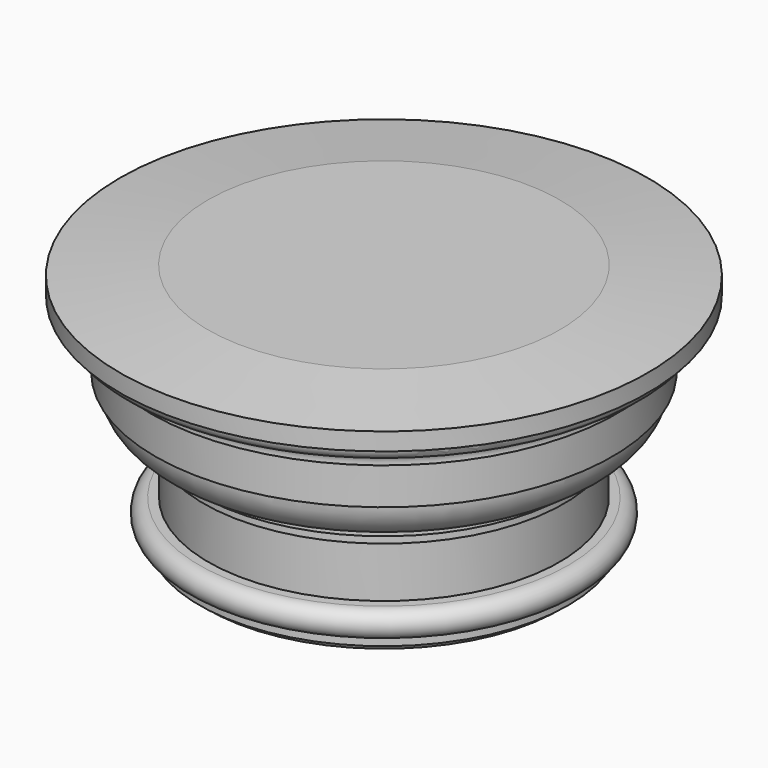
from build123d import *


with BuildPart() as f1:
    # F0 (on Front) → F1 (revolve)
    with BuildSketch(Plane.XZ):
        with BuildLine():
            Line((-200, 0), (0, 0))
            Line((0, 0), (0, 280))
            Line((0, 280), (-200, 280))
            Line((-200, 280), (-300, 269.5))
            Line((-300, 269.5), (-300, 249.5))
            Line((-300, 249.5), (-295, 249.5))
            ThreePointArc((-295, 249.5), (-290.540743, 238.825588), (-279.811945, 234.498821))
            ThreePointArc((-279.811945, 234.498821), (-268.294126, 229.330384), (-264.80145, 217.19885))
            Line((-264.80145, 217.19885), (-259.80145, 217.19885))
            Line((-259.80145, 217.19885), (-259.80145, 172.69885))
            Line((-259.80145, 172.69885), (-254.80145, 172.69885))
            ThreePointArc((-254.80145, 172.69885), (-241.614791, 140.804861), (-209.715405, 127.631263))
            Line((-209.715405, 127.631263), (-209.715405, 117.631263))
            Line((-209.715405, 117.631263), (-204.715405, 117.631263))
            Line((-204.715405, 117.631263), (-204.715405, 107.631263))
            Line((-204.715405, 107.631263), (-199.715405, 107.631263))
            Line((-199.715405, 107.631263), (-199.715405, 47.631263))
            Line((-199.715405, 47.631263), (-209.715405, 47.631263))
            ThreePointArc((-209.715405, 47.631263), (-224.715405, 32.631263), (-209.715405, 17.631263))
            Line((-209.715405, 17.631263), (-209.715405, 7.631263))
            ThreePointArc((-209.715405, 7.631263), (-203.538325, 5.495339), (-200, 0))
        make_face()
    revolve(axis=Axis((0, 0, 140), (0, 0, 1)))


solid = f1.part
